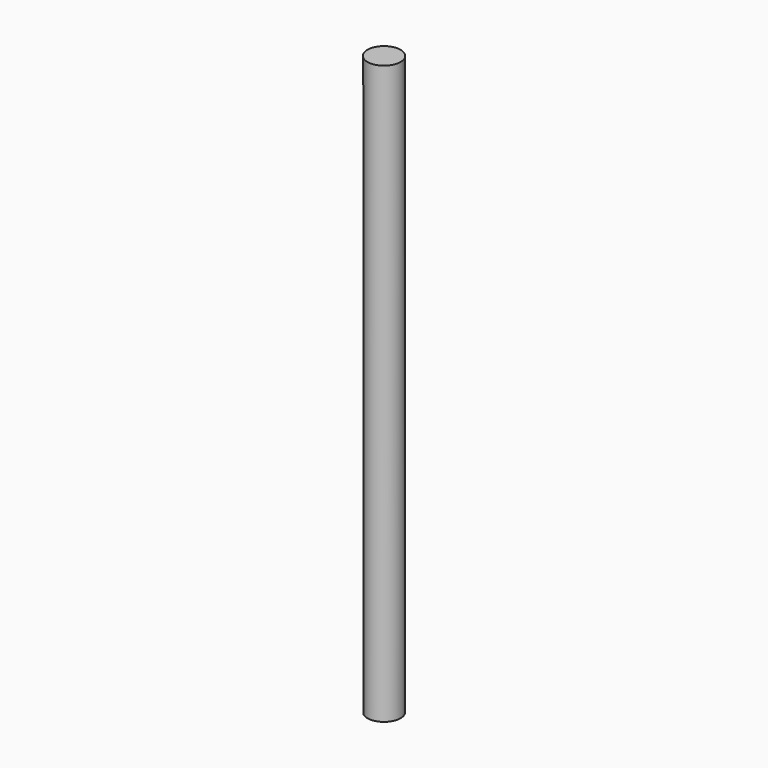
from build123d import *

# Parameters (mm, degrees)
F0_R     = 69.85
F1_DEPTH = 2438.4
F2_R     = 50.8
F3_DEPTH = 2413
F5_DEPTH = 2336.8


with BuildPart() as f1:
    # F0 (on Top) → F1 (new body)
    with BuildSketch(Plane.XY):
        Circle(F0_R)
    extrude(amount=F1_DEPTH)

    # F2 (on face) → F3 (cut)
    with BuildSketch(Plane(origin=(0, 0, 0), x_dir=(1, 0, 0), z_dir=(0, 0, -1))):
        Circle(F2_R)
    extrude(amount=-F3_DEPTH, mode=Mode.SUBTRACT)

    # F4 (on face) → F5 (cut)
    with BuildSketch(Plane(origin=(0, 0, 0), x_dir=(1, 0, 0), z_dir=(0, 0, -1))):
        with BuildLine():
            Line((-39.655737, 31.75), (-39.655737, 57.501696))
            ThreePointArc((-39.655737, 57.501696), (-69.85, 0), (-39.655737, -57.501696))
            Line((-39.655737, -57.501696), (-39.655737, -31.75))
            Line((-39.655737, -31.75), (-39.655737, 31.75))
        make_face()
    extrude(amount=-F5_DEPTH, mode=Mode.SUBTRACT)


solid = f1.part
